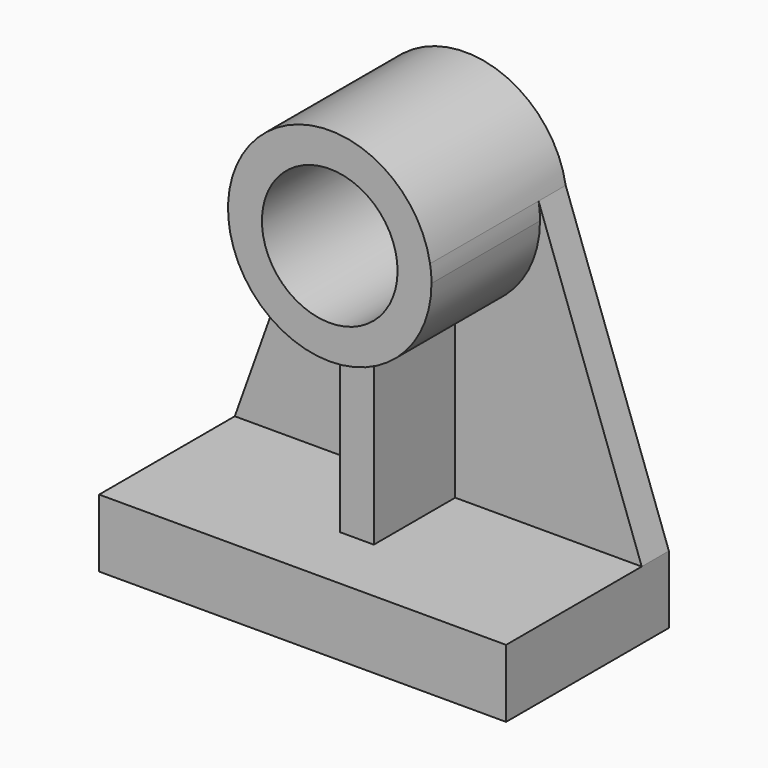
from build123d import *

# Parameters (mm, degrees)
F1_DEPTH = 152.4
F0_R     = 50.8
F2_DEPTH = 127
F3_DEPTH = 25.4
F4_DEPTH = 101.6


with BuildPart() as f1:
    # F0 (on Front) → F1 (new body)
    with BuildSketch(Plane.XZ):
        Polygon((-12.7, 25.4), (-152.4, 25.4), (-152.4, -25.4), (152.4, -25.4), (152.4, 25.4), (12.7, 25.4), align=None)
    extrude(amount=F1_DEPTH)


with BuildPart() as f2:
    # F0 (on Front) → F2 (new body)
    with BuildSketch(Plane.XZ):
        with BuildLine():
            ThreePointArc((75.134213, 241.3), (0, 304.8), (-75.134213, 241.3))
            ThreePointArc((-75.134213, 241.3), (-58.198711, 179.413112), (0, 152.4))
            ThreePointArc((0, 152.4), (53.881537, 174.718463), (76.2, 228.6))
            ThreePointArc((76.2, 228.6), (75.933086, 234.972321), (75.134213, 241.3))
        make_face()
        with Locations((0, 228.6)):
            Circle(F0_R, mode=Mode.SUBTRACT)
    extrude(amount=F2_DEPTH)


with BuildPart() as f3:
    # F0 (on Front) → F3 (new body)
    with BuildSketch(Plane.XZ):
        with BuildLine():
            Line((12.7, 152.4), (12.7, 25.4))
            Line((12.7, 25.4), (152.4, 25.4))
            Line((152.4, 25.4), (75.134213, 241.3))
            ThreePointArc((75.134213, 241.3), (75.933086, 234.972321), (76.2, 228.6))
            ThreePointArc((76.2, 228.6), (53.881537, 174.718463), (0, 152.4))
            Line((0, 152.4), (12.7, 152.4))
        make_face()
        with BuildLine():
            Line((-75.134213, 241.3), (-152.4, 25.4))
            Line((-152.4, 25.4), (-12.7, 25.4))
            Line((-12.7, 25.4), (-12.7, 152.4))
            Line((-12.7, 152.4), (0, 152.4))
            ThreePointArc((0, 152.4), (-58.198711, 179.413112), (-75.134213, 241.3))
        make_face()
    extrude(amount=F3_DEPTH)


with BuildPart() as f4:
    # F0 (on Front) → F4 (new body)
    with BuildSketch(Plane.XZ):
        Polygon((-12.7, 152.4), (-12.7, 25.4), (12.7, 25.4), (12.7, 152.4), (0, 152.4), align=None)
    extrude(amount=F4_DEPTH)


solid = Compound([f1.part, f2.part, f3.part, f4.part])
